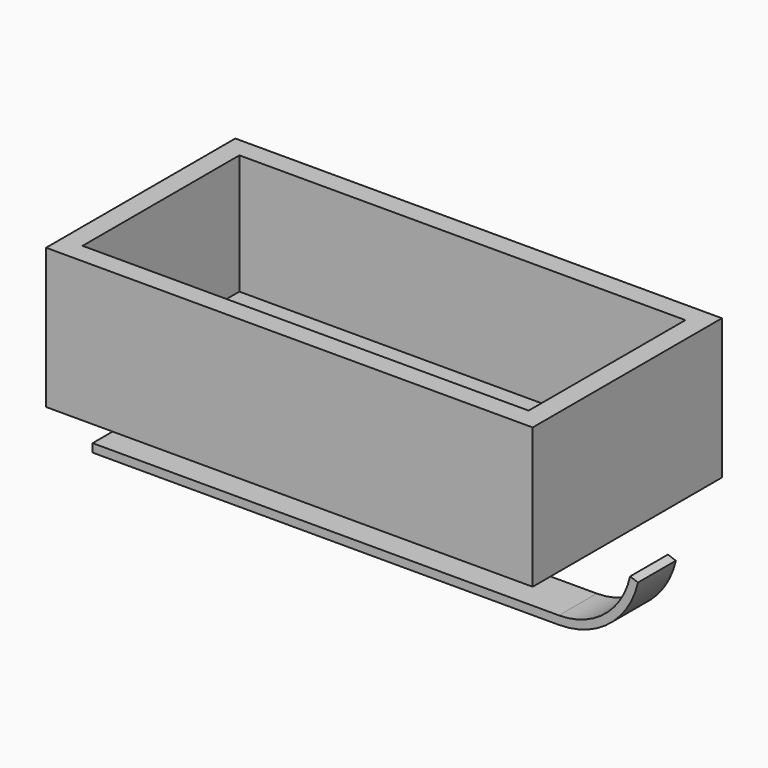
from build123d import *

# Parameters (mm, degrees)
F0_W     = 457.2
F0_H     = 222.25
F1_DEPTH = 131.7752
F2_T     = -19.05
F4_DEPTH = 44.45


with BuildPart() as f1:
    # F0 (on Top) → F1 (new body)
    with BuildSketch(Plane.XY):
        Rectangle(F0_W, F0_H)
    extrude(amount=F1_DEPTH)

    # F2
    f2_openings = [f1.faces().sort_by_distance(p)[0] for p in [
        (0, 0, 131.7752),
    ]]
    offset(amount=F2_T, openings=f2_openings)


with BuildPart() as f4:
    # F3 (on Front) → F4 (new body)
    with BuildSketch(Plane.XZ):
        with BuildLine():
            Line((-238.207757, -60.096847), (-238.207757, -67.970847))
            Line((-238.207757, -67.970847), (199.942243, -67.970847))
            ThreePointArc((199.942243, -67.970847), (247.445641, -51.351609), (274.228034, -8.743214))
            Line((274.228034, -8.743214), (266.744122, -6.121847))
            ThreePointArc((266.744122, -6.121847), (242.883458, -44.916819), (199.942243, -60.096847))
            Line((199.942243, -60.096847), (-238.207757, -60.096847))
        make_face()
    extrude(amount=F4_DEPTH)


solid = Compound([f1.part, f4.part])
